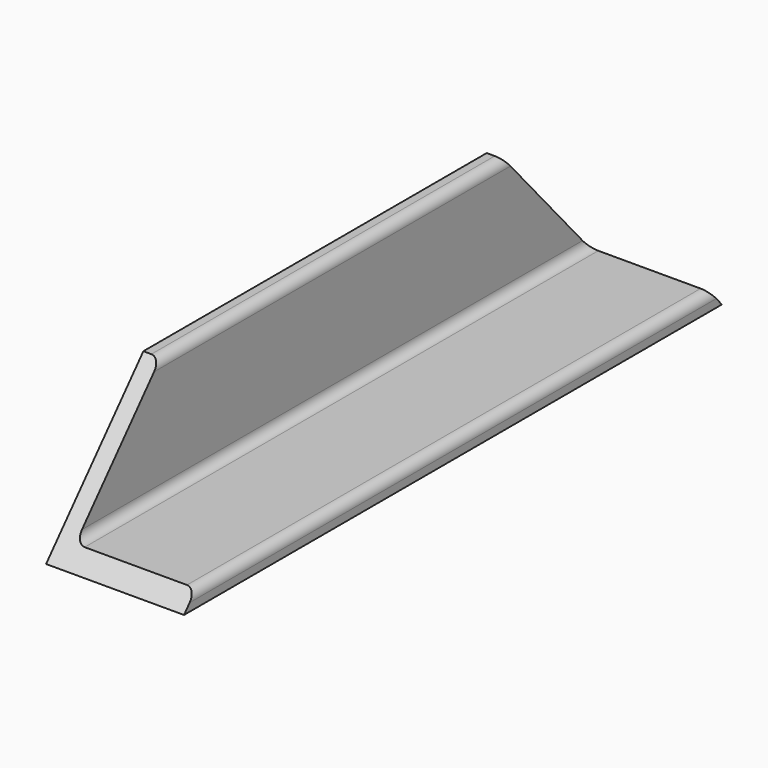
from build123d import *

# Parameters (mm, degrees)
F1_DEPTH = 185.7375
F3_DEPTH = 76.2
F4_R     = 5.08


with BuildPart() as f1:
    # F0 (on Front) → F1 (new body, symmetric)
    with BuildSketch(Plane.XZ):
        Polygon((0, 76.2), (0, 0), (76.2, 0), (76.2, 9.525), (9.525, 9.525), (9.525, 76.2), align=None)
    extrude(amount=F1_DEPTH, both=True)

    # F2 (on face) → F3 (cut)
    with BuildSketch(Plane(origin=(0, 0, 0), x_dir=(0, -1, 0), z_dir=(-1, 0, 0))):
        Polygon((-185.7375, 76.2), (-185.7375, 0), (-118.558163, 76.2), align=None)
        Polygon((118.558163, 76.2), (185.7375, 0), (185.7375, 76.2), align=None)
    extrude(amount=-F3_DEPTH, mode=Mode.SUBTRACT)

    # F4
    f4_edges = [f1.edges().sort_by_distance(p)[0] for p in [
        (9.525, 0, 76.2),
        (9.525, 0, 9.525),
        (76.2, 0, 9.525),
    ]]
    fillet(f4_edges, radius=F4_R)


solid = f1.part
